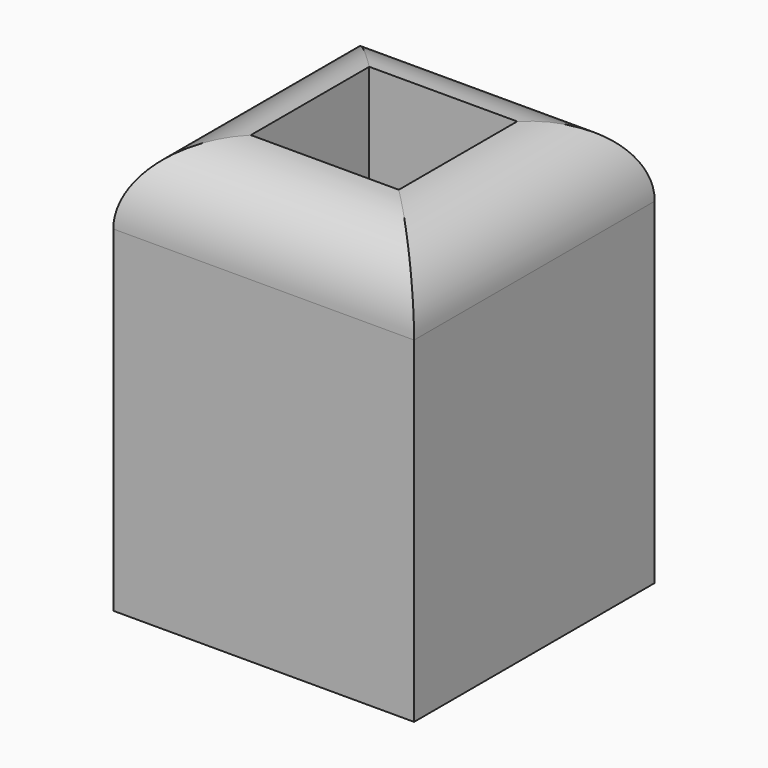
from build123d import *

# Parameters (mm, degrees)
F0_W      = 40
F0_H      = 40
F1_DEPTH  = 54.864
F2_R      = 10.16
F1_FACE_W = 19.68
F1_FACE_H = 19.68
F3_DEPTH  = 16.002


with BuildPart() as f1:
    # F0 (on Top) → F1 (new body)
    with BuildSketch(Plane.XY):
        with Locations((-12.078214, -3.62122)):
            Rectangle(F0_W, F0_H)
    extrude(amount=F1_DEPTH)

    # F2
    f2_edges = [f1.edges().sort_by_distance(p)[0] for p in [
        (-12.078214, -23.62122, 54.864),
        (7.921786, -3.62122, 54.864),
        (-12.078214, 16.37878, 54.864),
        (-32.078214, -3.62122, 54.864),
    ]]
    fillet(f2_edges, radius=F2_R)

    # F1_face (on face) → F3 (cut)
    with BuildSketch(Plane(origin=(-12.078214, -3.62122, 54.864), x_dir=(1, 0, 0), z_dir=(0, 0, 1))):
        Rectangle(F1_FACE_W, F1_FACE_H)
    extrude(amount=-F3_DEPTH, mode=Mode.SUBTRACT)


solid = f1.part
